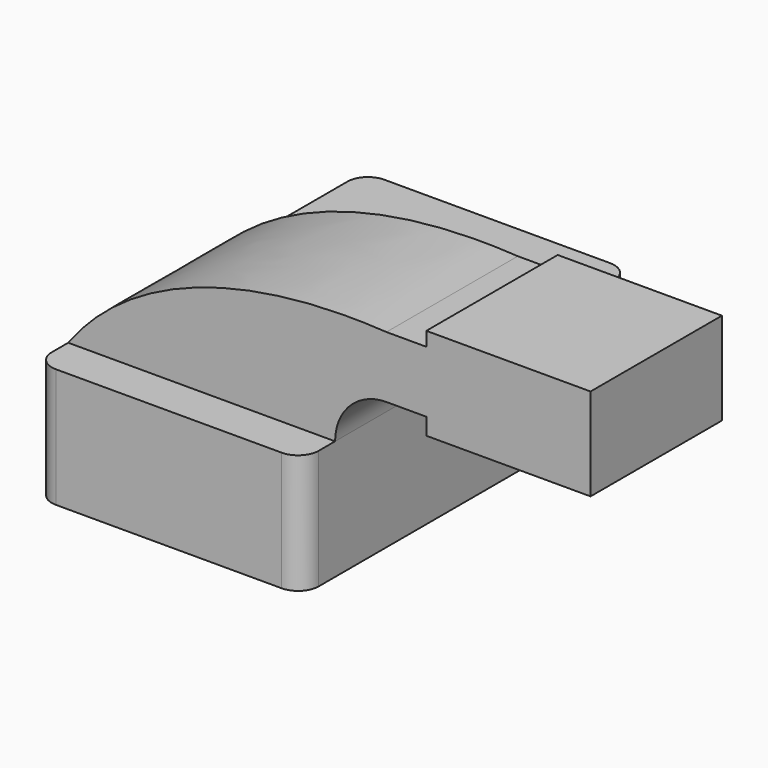
from build123d import *

# Parameters (mm, degrees)
F1_DEPTH = 63.5
F2_DEPTH = 50.8
F3_DEPTH = 15.875
F4_R     = 6.35


with BuildPart() as f1:
    # F0 (on Front) → F1 (new body, symmetric)
    with BuildSketch(Plane.XZ):
        Polygon((22.225, 18.464241), (-41.275, 18.464241), (-41.275, -18.464241), (41.275, -18.464241), (41.275, 18.464241), align=None)
    extrude(amount=F1_DEPTH, both=True)

    # F0 (on Front) → F2 (join)
    with BuildSketch(Plane.XZ):
        with BuildLine():
            add(Edge.make_bspline(
                [(-41.275, 18.464241), (-21.691592, 45.134176), (15.657064, 55.939447), (57.15, 53.389241)],
                knots=[0, 0, 0, 0, 104.437715, 104.437715, 104.437715, 104.437715], degree=3))
            Line((-41.275, 18.464241), (22.225, 18.464241))
            ThreePointArc((22.225, 18.464241), (32.454296, 43.159945), (57.15, 53.389241))
        make_face()
        Polygon((22.225, 18.464241), (-41.275, 18.464241), (-41.275, -18.464241), (41.275, -18.464241), (41.275, 18.464241), align=None)
        with BuildLine():
            ThreePointArc((57.15, 53.389241), (32.454296, 43.159945), (22.225, 18.464241))
            Line((22.225, 18.464241), (41.275, 18.464241))
            ThreePointArc((41.275, 18.464241), (45.92468, 29.689561), (57.15, 34.339241))
            Line((57.15, 34.339241), (69.494901, 34.339241))
            Line((69.494901, 34.339241), (69.494901, 53.000192))
            Line((69.494901, 53.000192), (69.494901, 53.389241))
            Line((69.494901, 53.389241), (57.15, 53.389241))
        make_face()
        Polygon((69.494901, 57.735759), (69.494901, 53.389241), (69.494901, 53.000192), (69.494901, 34.339241), (69.494901, 29.160759), (120.294901, 29.160759), (120.294901, 57.735759), align=None)
    extrude(amount=F2_DEPTH)

    # F0 (on Front) → F3 (join)
    with BuildSketch(Plane.XZ):
        with BuildLine():
            add(Edge.make_bspline(
                [(-41.275, 18.464241), (-21.691592, 45.134176), (15.657064, 55.939447), (57.15, 53.389241)],
                knots=[0, 0, 0, 0, 104.437715, 104.437715, 104.437715, 104.437715], degree=3))
            Line((-41.275, 18.464241), (22.225, 18.464241))
            ThreePointArc((22.225, 18.464241), (32.454296, 43.159945), (57.15, 53.389241))
        make_face()
        Polygon((22.225, 18.464241), (-41.275, 18.464241), (-41.275, -18.464241), (41.275, -18.464241), (41.275, 18.464241), align=None)
        with BuildLine():
            ThreePointArc((57.15, 53.389241), (32.454296, 43.159945), (22.225, 18.464241))
            Line((22.225, 18.464241), (41.275, 18.464241))
            ThreePointArc((41.275, 18.464241), (45.92468, 29.689561), (57.15, 34.339241))
            Line((57.15, 34.339241), (69.494901, 34.339241))
            Line((69.494901, 34.339241), (69.494901, 53.000192))
            Line((69.494901, 53.000192), (69.494901, 53.389241))
            Line((69.494901, 53.389241), (57.15, 53.389241))
        make_face()
        Polygon((69.494901, 57.735759), (69.494901, 53.389241), (69.494901, 53.000192), (69.494901, 34.339241), (69.494901, 29.160759), (120.294901, 29.160759), (120.294901, 57.735759), align=None)
    extrude(amount=F3_DEPTH)

    # F4
    f4_edges = [f1.edges().sort_by_distance(p)[0] for p in [
        (41.275, -63.5, 0),
        (-41.275, -63.5, 0),
        (41.275, 63.5, 0),
        (-41.275, 63.5, 0),
    ]]
    fillet(f4_edges, radius=F4_R)


solid = f1.part
